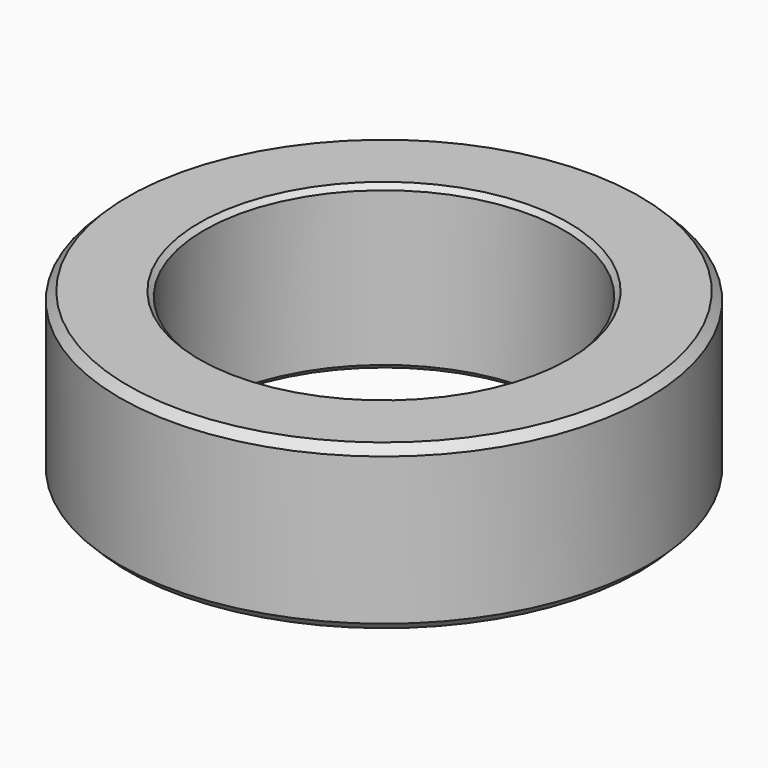
from build123d import *

# Parameters (mm, degrees)
F0_R     = 16.15
F0_R_2   = 11
F1_DEPTH = 10
F2_SIZE  = 0.3
F3_SIZE  = 0.5


with BuildPart() as f1:
    # F0 (on Top) → F1 (new body)
    with BuildSketch(Plane.XY):
        Circle(F0_R)
        Circle(F0_R_2, mode=Mode.SUBTRACT)
    extrude(amount=F1_DEPTH)

    # F2
    f2_edges = [f1.edges().sort_by_distance(p)[0] for p in [
        (-11, 0, 10),
        (-11, 0, 0),
    ]]
    chamfer(f2_edges, length=F2_SIZE)

    # F3
    f3_edges = [f1.edges().sort_by_distance(p)[0] for p in [
        (-16.15, 0, 10),
        (-16.15, 0, 0),
    ]]
    chamfer(f3_edges, length=F3_SIZE)


solid = f1.part
